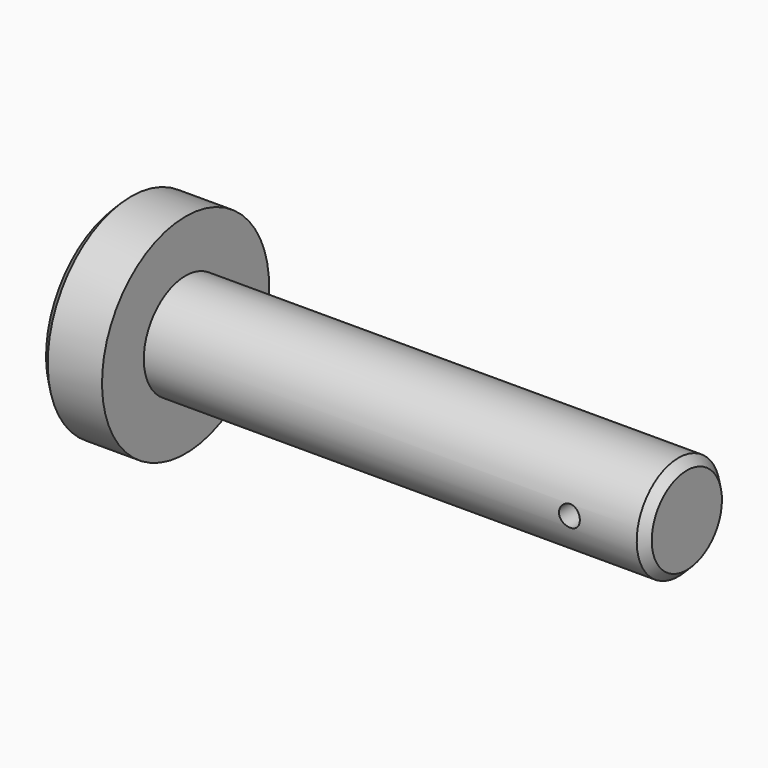
from build123d import *

# Parameters (mm, degrees)
F2_DEPTH = 25.4
F3_SIZE  = 2.54


with BuildPart() as f1:
    # F0 (on Front) → F1 (revolve)
    with BuildSketch(Plane.XZ):
        with BuildLine():
            Line((-76.2, 15.875), (-76.2, 0))
            Line((-76.2, 0), (50.0140764832, 0))
            ThreePointArc((50.0140764832, 0), (53.1890764832, 3.175), (56.3640764832, 0))
            Line((56.3640764832, 0), (76.2, 0))
            Line((76.2, 0), (76.2, 15.875))
            Line((76.2, 15.875), (-76.2, 15.875))
        make_face()
        Polygon((-95.25, 0), (-76.2, 0), (-76.2, 15.875), (-76.2, 31.75), (-95.25, 31.75), align=None)
    revolve(axis=Axis((-9.525, 0, 0), (-1, 0, 0)))

    # F0 (on Front) → F2 (cut, symmetric)
    with BuildSketch(Plane.XZ):
        with BuildLine():
            Line((56.3640764832, 0), (50.0140764832, 0))
            ThreePointArc((50.0140764832, 0), (53.1890764832, -3.175), (56.3640764832, 0))
        make_face()
        with BuildLine():
            ThreePointArc((56.3640764832, 0), (53.1890764832, 3.175), (50.0140764832, 0))
            Line((50.0140764832, 0), (56.3640764832, 0))
        make_face()
    extrude(amount=F2_DEPTH, both=True, mode=Mode.SUBTRACT)

    # F3
    f3_edges = [f1.edges().sort_by_distance(p)[0] for p in [
        (76.2, 0, -15.875),
        (-95.25, 0, -31.75),
    ]]
    chamfer(f3_edges, length=F3_SIZE)


solid = f1.part
